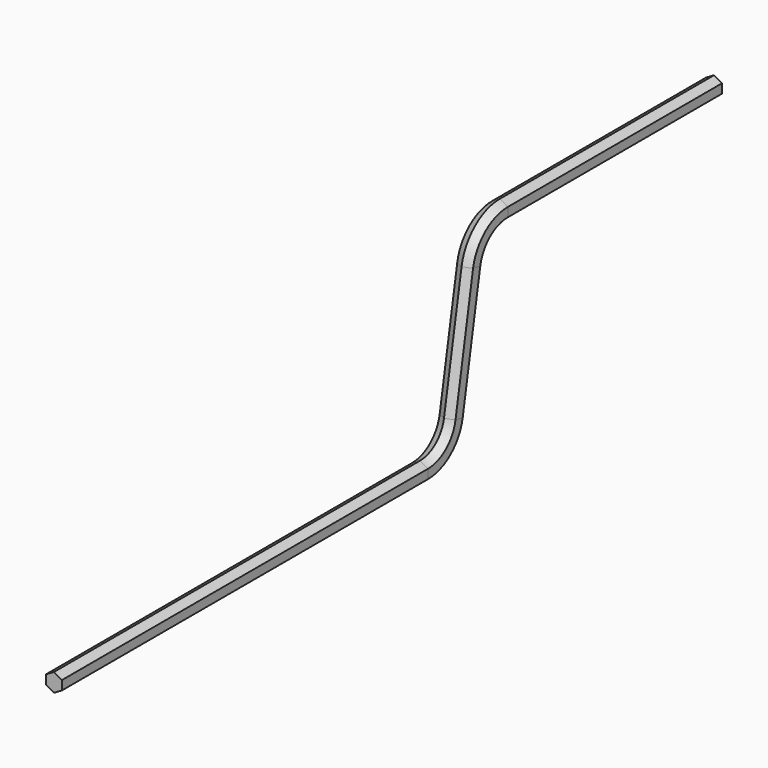
from build123d import *


with BuildPart() as f2:
    # F2: sweep along a path in F1
    with BuildLine(Plane.YZ) as f2_path:
        Line((0, 0), (289.022509, 0))
        ThreePointArc((289.022509, 0), (305.092199, 5.848889), (313.642703, 20.658796))
        Line((313.642703, 20.658796), (327.516535, 99.341204))
        ThreePointArc((327.516535, 99.341204), (336.067038, 114.151111), (352.136728, 120))
        Line((352.136728, 120), (521.159238, 120))
    # F0 (on Front) → F2 (sweep)
    with BuildSketch(Plane.XZ):
        Polygon((0.012307, -5.773503), (5.006153, -2.876093), (4.993847, 2.897409), (-0.012307, 5.773503), (-5.006153, 2.876093), (-4.993847, -2.897409), align=None)
    sweep(path=f2_path.line)


solid = f2.part
